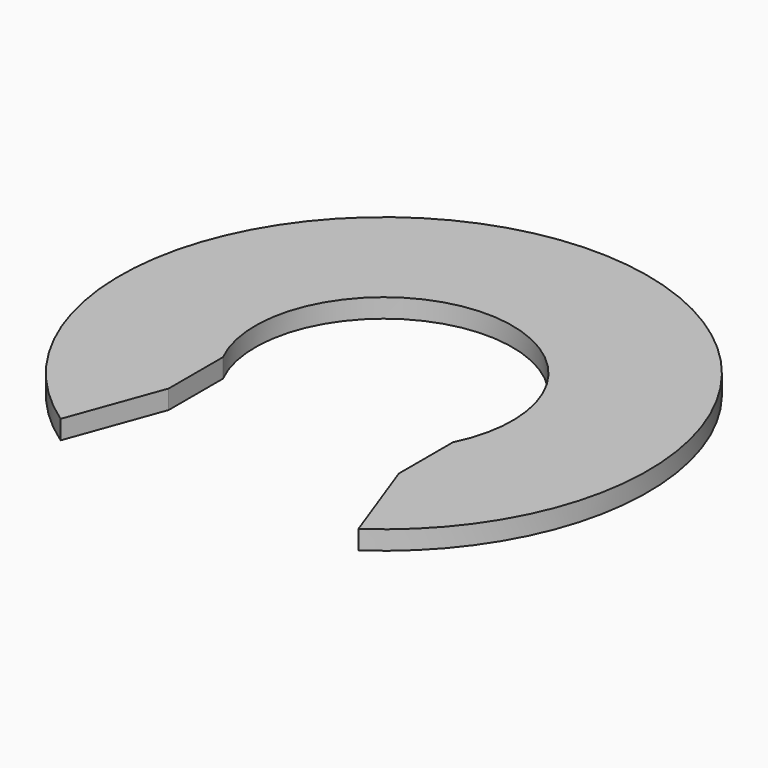
from build123d import *

# Parameters (mm, degrees)
EXTRUDE_DEPTH = 0.7


with BuildPart() as part:
    # Sketch → Extrude (new body)
    with BuildSketch(Plane.XY):
        with BuildLine():
            ThreePointArc((5.5, -8.050621), (0, 9.75), (-5.5, -8.050621))
            Line((-5.5, -8.050621), (-4.25, -4.62132))
            Line((-4.25, -2.12132), (-4.25, -4.62132))
            ThreePointArc((4.25, -2.12132), (0, 4.75), (-4.25, -2.12132))
            Line((4.25, -2.12132), (4.25, -4.62132))
            Line((4.25, -4.62132), (5.5, -8.050621))
        make_face()
    extrude(amount=EXTRUDE_DEPTH)


solid = part.part
